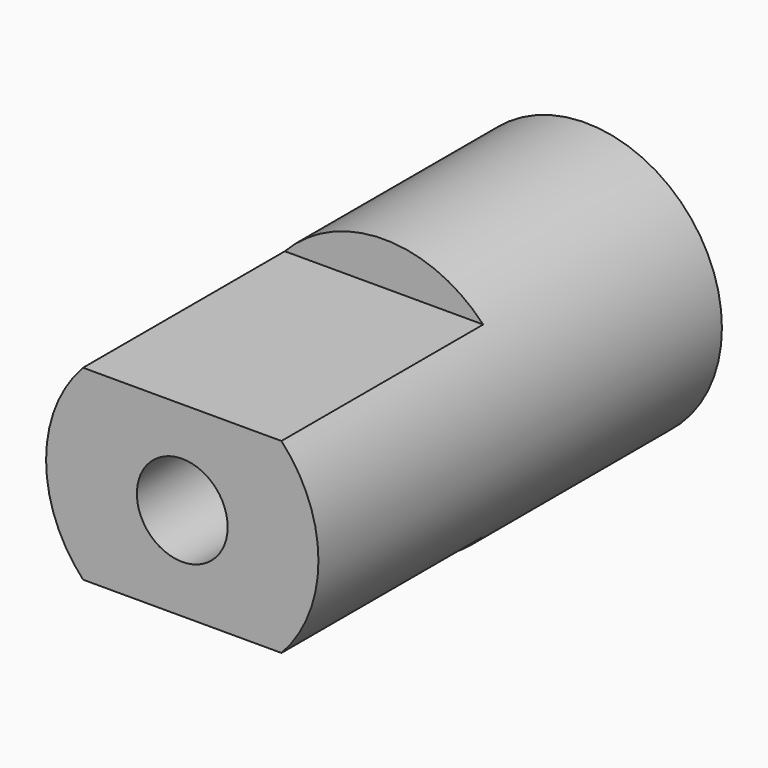
from build123d import *

# Parameters (mm, degrees)
SKETCH_R        = 2.7
PAD_DEPTH       = 10
POCKET_DEPTH    = 5
SKETCH002_R     = 0.9
POCKET001_DEPTH = 10.001


with BuildPart() as part:
    # Sketch → Pad (new body)
    with BuildSketch(Plane.XZ):
        Circle(SKETCH_R)
    extrude(amount=PAD_DEPTH)

    # Sketch001 (on Face3 of Pad) → Pocket (cut)
    with BuildSketch(Plane.XZ.offset(10)):
        with BuildLine():
            Line((-1.966596, 1.85), (1.966596, 1.85))
            ThreePointArc((1.966596, 1.85), (0, 2.7), (-1.966596, 1.85))
        make_face()
        with BuildLine():
            Line((-1.966596, -1.85), (1.966596, -1.85))
            ThreePointArc((-1.966596, -1.85), (0, -2.7), (1.966596, -1.85))
        make_face()
    extrude(amount=-POCKET_DEPTH, mode=Mode.SUBTRACT)

    # Sketch002 (on Face3 of Pocket) → Pocket001 (cut, through all)
    with BuildSketch(Plane.XZ.offset(10)):
        Circle(SKETCH002_R)
    extrude(amount=-POCKET001_DEPTH, mode=Mode.SUBTRACT)


solid = part.part
